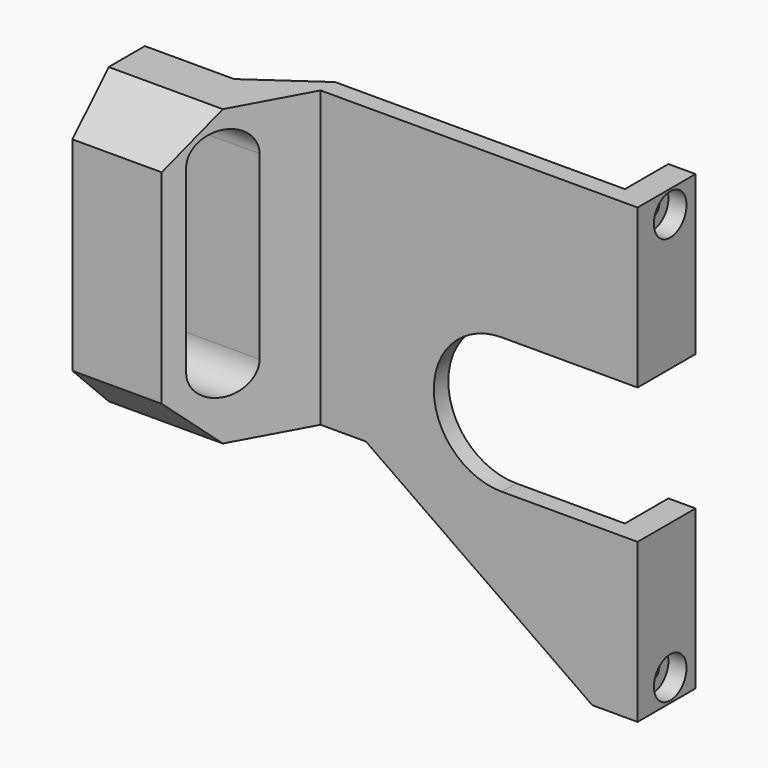
from build123d import *

# Parameters (mm, degrees)
PAD_DEPTH       = 100
SKETCH001_R     = 2
POCKET_DEPTH    = 104.001
SKETCH002_R     = 4.5
POCKET001_DEPTH = 4
POCKET002_DEPTH = 104.001
POCKET003_DEPTH = 100.001
POCKET004_DEPTH = 42.001
CHAMFER_SIZE    = 10
POCKET005_DEPTH = 16.001


with BuildPart() as part:
    # Sketch → Pad (new body)
    with BuildSketch(Plane.XY):
        Polygon((0, 0), (-70, 0), (-84.28148, -26), (-104, -26), (-104, -6), (-84.28148, -6), (-70, 4), (-6, 4), (-6, 16), (0, 16), align=None)
    extrude(amount=PAD_DEPTH)

    # Sketch001 (on Face10 of Pad) → Pocket (cut, through all)
    with BuildSketch(Plane.YZ):
        with Locations((9, 95)):
            Circle(SKETCH001_R)
        with Locations((9, 5)):
            Circle(SKETCH001_R)
    extrude(amount=-POCKET_DEPTH, mode=Mode.SUBTRACT)

    # Sketch002 (on Face2 of Pocket) → Pocket001 (cut)
    with BuildSketch(Plane.YZ):
        with Locations((9, 95)):
            Circle(SKETCH002_R)
        with Locations((9, 5)):
            Circle(SKETCH002_R)
    extrude(amount=-POCKET001_DEPTH, mode=Mode.SUBTRACT)

    # Sketch003 (on Face10 of Pocket001) → Pocket002 (cut, through all)
    with BuildSketch(Plane(origin=(-104, 0, 0), x_dir=(0, -1, 0), z_dir=(-1, 0, 0))):
        with BuildLine():
            ThreePointArc((18.5, 90), (16, 92.5), (13.5, 90))
            Line((13.5, 90), (13.5, 50))
            ThreePointArc((13.5, 50), (16, 47.5), (18.5, 50))
            Line((18.5, 50), (18.5, 90))
        make_face()
    extrude(amount=-POCKET002_DEPTH, mode=Mode.SUBTRACT)

    # Sketch004 (on Face14 of Pocket002) → Pocket003 (cut, through all)
    with BuildSketch(Plane(origin=(-100, 0, 0), x_dir=(0, -1, 0), z_dir=(-1, 0, 0))):
        with BuildLine():
            ThreePointArc((22, 90), (16, 96), (10, 90))
            Line((10, 90), (10, 50))
            ThreePointArc((10, 50), (16, 44), (22, 50))
            Line((22, 50), (22, 90))
        make_face()
    extrude(amount=-POCKET003_DEPTH, mode=Mode.SUBTRACT)

    # Sketch005 (on Face9 of Pocket003) → Pocket004 (cut, through all)
    with BuildSketch(Plane.XZ.offset(26)):
        Polygon((-104, 0), (-104, 35), (-59.98518, 35), (-10, 0), align=None)
    extrude(amount=-POCKET004_DEPTH, mode=Mode.SUBTRACT)

    # Chamfer
    chamfer_edges = [part.edges().sort_by_distance(p)[0] for p in [
        (-94.14074, -26, 100),
        (-94.14074, -26, 35),
    ]]
    chamfer(chamfer_edges, length=CHAMFER_SIZE)

    # Sketch006 (on Face4 of Chamfer) → Pocket005 (cut, through all)
    with BuildSketch(Plane.XZ):
        with BuildLine():
            ThreePointArc((0, 35), (15, 50), (0, 65))
            Line((0, 65), (-30, 65))
            ThreePointArc((-30, 65), (-45, 50), (-30, 35))
            Line((-30, 35), (0, 35))
        make_face()
    extrude(amount=-POCKET005_DEPTH, mode=Mode.SUBTRACT)


solid = part.part
